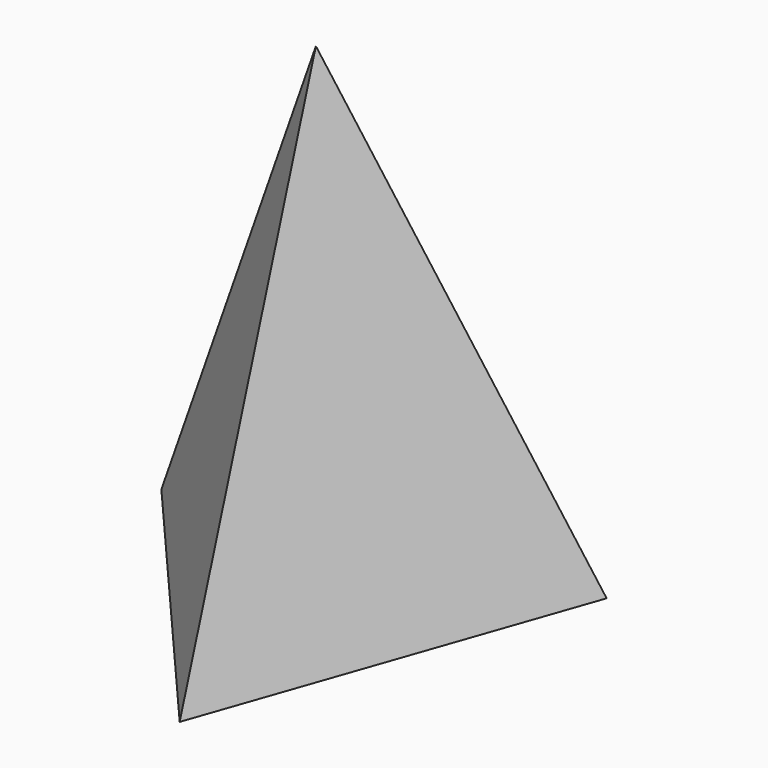
from build123d import *


with BuildPart() as f3:
    # F0 (on Top) → F3 section 0
    with BuildSketch(Plane.XY, mode=Mode.PRIVATE) as f3_s0:
        Polygon((10.965567, -57.795201), (44.569328, 38.39406), (-55.534896, 19.401141), align=None)
    loft([f3_s0.sketch, Vertex(0, 0, 127)])


solid = f3.part
